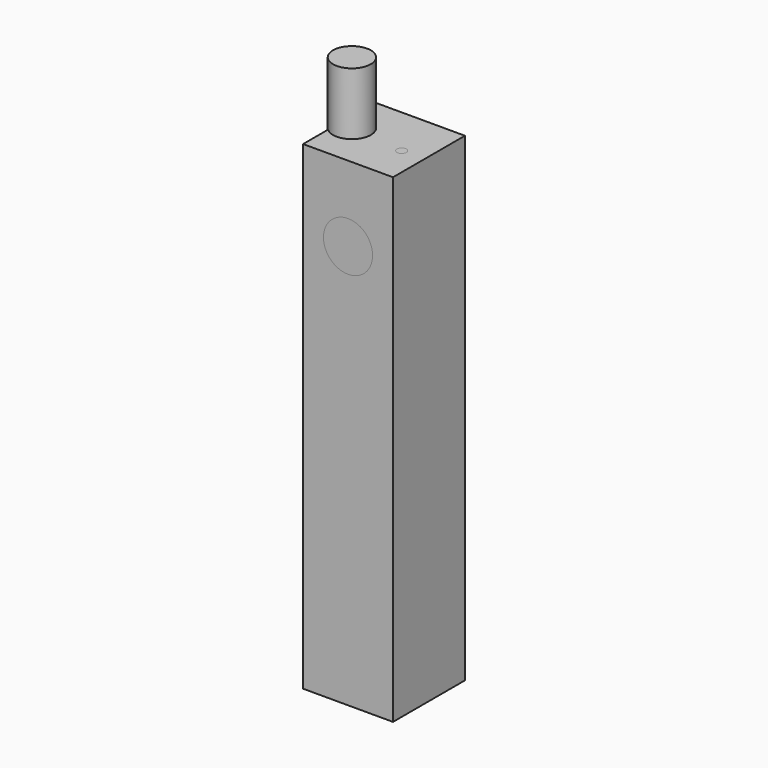
from build123d import *

# Parameters (mm, degrees)
F0_W      = 9.525
F0_H      = 9.525
F1_DEPTH  = 50.8
F11_R     = 0.5
F12_DEPTH = 15


with BuildPart() as f1:
    # F0 (on Top) → F1 (new body)
    with BuildSketch(Plane.XY):
        with Locations((4.7625, 4.7625)):
            Rectangle(F0_W, F0_H)
    extrude(amount=F1_DEPTH)


with BuildPart() as f4:
    # F3 (on offset) → F4 (revolve)
    with BuildSketch(Plane.XY.offset(42.8)):
        with BuildLine():
            Line((4.7625, 11.6668619663), (2.1625, 11.6668619663))
            Line((2.1625, 11.6668619663), (2.1625, 10.6668619663))
            Line((2.1625, 10.6668619663), (3.303514332, 10.6668619663))
            Line((3.303514332, 10.6668619663), (3.303514332, 9.6668619663))
            Line((3.303514332, 9.6668619663), (2.1625, 9.6668619663))
            Line((2.1625, 9.6668619663), (2.1625, 4.7625))
            ThreePointArc((2.1625, 4.7625), (4.1625, 2.7625), (2.1625, 0.7625))
            Line((2.1625, 0.7625), (2.1625, 0))
            Line((2.1625, 0), (4.7625, 0))
            Line((4.7625, 0), (4.7625, 11.6668619663))
        make_face()
    revolve(axis=Axis((4.7625, 4.0530543774, 42.8), (0, -1, 0)))


with BuildPart() as f10:
    # F9 (on 3pt) → F10 (revolve)
    with BuildSketch(Plane.XZ.offset(-4.7625)):
        with BuildLine():
            Line((3.3625, 57.4017606624), (1.3625, 57.4017606624))
            Line((1.3625, 57.4017606624), (1.3625, 32.4017606624))
            Line((1.3625, 32.4017606624), (3.3625, 32.4017606624))
            Line((3.3625, 32.4017606624), (3.3625, 40.60910977))
            ThreePointArc((3.3625, 40.60910977), (2.1625, 42.8), (3.3625, 44.99089023))
            Line((3.3625, 44.99089023), (3.3625, 57.4017606624))
        make_face()
    revolve(axis=Axis((1.3625, 4.7625, 45.4864110798), (0, 0, -1)))


with BuildPart() as f12:
    # F11 (on face) → F12 (new body)
    with BuildSketch(Plane.XY.offset(50.8)):
        with Locations((7.1149454452, 4.1618831456)):
            Circle(F11_R)
    extrude(amount=-F12_DEPTH)


solid = Compound([f1.part, f4.part, f10.part, f12.part])
